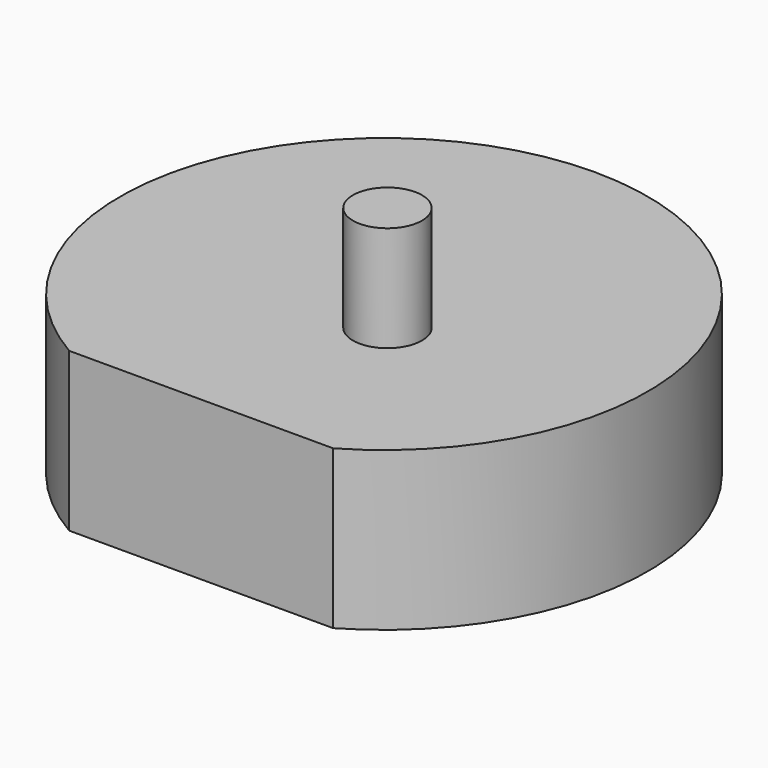
from build123d import *

# Parameters (mm, degrees)
F0_R     = 16.623406
F1_DEPTH = 127
F0_R_2   = 59.47353
F2_DEPTH = 76.2
F3_DEPTH = 76.2


with BuildPart() as f1:
    # F0 (on Top) → F1 (new body)
    with BuildSketch(Plane.XY):
        with Locations((81.678741, 89.352399)):
            Circle(F0_R)
    extrude(amount=F1_DEPTH)

    # F0 (on Top) → F2 (join)
    with BuildSketch(Plane.XY):
        with Locations((63.5, 109.985226)):
            Circle(F0_R_2)
        with Locations((81.678741, 89.352399)):
            Circle(F0_R, mode=Mode.SUBTRACT)
    extrude(amount=F2_DEPTH)

    # F0 (on Top) → F3 (join)
    with BuildSketch(Plane.XY):
        with BuildLine():
            ThreePointArc((127, 0), (63.5, 236.985226), (0, 0))
            Line((0, 0), (127, 0))
        make_face()
        with Locations((63.5, 109.985226)):
            Circle(F0_R_2, mode=Mode.SUBTRACT)
    extrude(amount=F3_DEPTH)


solid = f1.part
